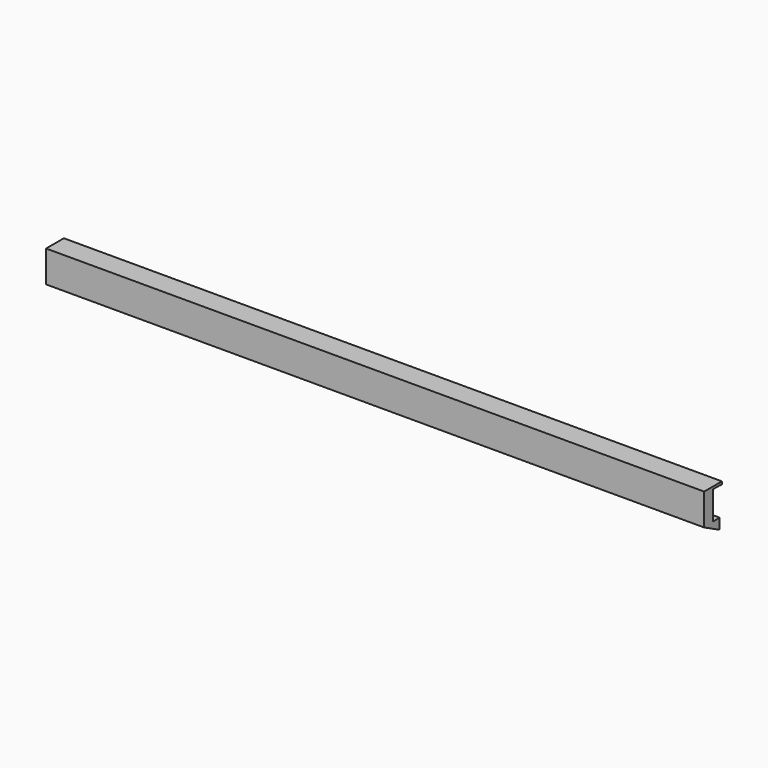
from build123d import *

# Parameters (mm, degrees)
BOX079_W               = 3
BOX079_H               = 10
BOX079_DEPTH           = 6.5
CYLINDER078_R          = 3.25
CYLINDER078_DEPTH      = 10
CYLINDER078_ROLL_ANGLE = 90
CYLINDER077_R          = 1.25
CYLINDER077_DEPTH      = 6
CYLINDER077_ROLL_ANGLE = 90
CYLINDER075_R          = 1.25
CYLINDER075_DEPTH      = 6
CYLINDER075_ROLL_ANGLE = 90
BOX078_W               = 5.1
BOX078_H               = 3.1
BOX078_DEPTH           = 10.2
CYLINDER073_R          = 3.25
CYLINDER073_DEPTH      = 10
CYLINDER073_ROLL_ANGLE = 90
BOX076_W               = 238
BOX076_H               = 8
BOX076_DEPTH           = 15
BOX074_W               = 37
BOX074_H               = 160
BOX074_DEPTH           = 120
BOX074_PITCH_ANGLE     = -15
BOX068_W               = 475
BOX068_H               = 10
BOX068_DEPTH           = 10
BOX068_ROLL_ANGLE      = -27
BOX049_W               = 475
BOX049_H               = 8
BOX049_DEPTH           = 15
BOX069_W               = 475
BOX069_H               = 8
BOX069_DEPTH           = 15


with BuildPart() as cube051:
    # Box079 → Box079 (new body)
    with BuildSketch(Plane(origin=(7, -43, 91.75), x_dir=(1, 0, 0), z_dir=(0, 0, 1))):
        with Locations((1.5, 5)):
            Rectangle(BOX079_W, BOX079_H)
    extrude(amount=BOX079_DEPTH)


with BuildPart() as fusion088:
    # Cylinder078 → Cylinder078 (new body)
    with BuildSketch(Plane.XY):
        Circle(CYLINDER078_R)
    extrude(amount=CYLINDER078_DEPTH)


with BuildPart() as fusion088_1:
    # Cylinder078 roll: moved
    add(fusion088.part.rotate(Axis((0, 0, 0), (1, 0, 0)), CYLINDER078_ROLL_ANGLE))


with BuildPart() as fusion088_2:
    # Cylinder078 placement: moved
    add(fusion088_1.part.moved(Location((10, -33, 95))))

    # Fusion088: union Cube051
    add(cube051.part)


with BuildPart() as cylinder077:
    # Cylinder077 → Cylinder077 (new body)
    with BuildSketch(Plane.XY):
        Circle(CYLINDER077_R)
    extrude(amount=CYLINDER077_DEPTH)


with BuildPart() as cylinder077_1:
    # Cylinder077 roll: moved
    add(cylinder077.part.rotate(Axis((0, 0, 0), (1, 0, 0)), CYLINDER077_ROLL_ANGLE))


with BuildPart() as cylinder077_2:
    # Cylinder077 placement: moved
    add(cylinder077_1.part.moved(Location((237.5, -40, 101))))


with BuildPart() as fusion084:
    # Cylinder075 → Cylinder075 (new body)
    with BuildSketch(Plane.XY):
        Circle(CYLINDER075_R)
    extrude(amount=CYLINDER075_DEPTH)


with BuildPart() as fusion084_1:
    # Cylinder075 roll: moved
    add(fusion084.part.rotate(Axis((0, 0, 0), (1, 0, 0)), CYLINDER075_ROLL_ANGLE))


with BuildPart() as fusion084_2:
    # Cylinder075 placement: moved
    add(fusion084_1.part.moved(Location((15, -40, 101))))

    # Fusion084: union Cylinder077
    add(cylinder077_2.part)


with BuildPart() as cube050:
    # Box078 → Box078 (new body)
    with BuildSketch(Plane(origin=(234.9, -43.1, 93.9), x_dir=(1, 0, 0), z_dir=(0, 0, 1))):
        with Locations((2.55, 1.55)):
            Rectangle(BOX078_W, BOX078_H)
    extrude(amount=BOX078_DEPTH)


with BuildPart() as cylinder073:
    # Cylinder073 → Cylinder073 (new body)
    with BuildSketch(Plane.XY):
        Circle(CYLINDER073_R)
    extrude(amount=CYLINDER073_DEPTH)


with BuildPart() as cylinder073_1:
    # Cylinder073 roll: moved
    add(cylinder073.part.rotate(Axis((0, 0, 0), (1, 0, 0)), CYLINDER073_ROLL_ANGLE))


with BuildPart() as cylinder073_2:
    # Cylinder073 placement: moved
    add(cylinder073_1.part.moved(Location((7, -33, 95))))


with BuildPart() as cube048:
    # Box076 → Box076 (new body)
    with BuildSketch(Plane(origin=(240, -47, 90), x_dir=(1, 0, 0), z_dir=(0, 0, 1))):
        with Locations((119, 4)):
            Rectangle(BOX076_W, BOX076_H)
    extrude(amount=BOX076_DEPTH)


with BuildPart() as cube046:
    # Box074 → Box074 (new body)
    with BuildSketch(Plane.XY):
        with Locations((18.5, 80)):
            Rectangle(BOX074_W, BOX074_H)
    extrude(amount=BOX074_DEPTH)


with BuildPart() as cube046_1:
    # Box074 pitch: moved
    add(cube046.part.rotate(Axis((0, 0, 0), (0, 1, 0)), BOX074_PITCH_ANGLE))


with BuildPart() as cube046_2:
    # Box074 placement: moved
    add(cube046_1.part.moved(Location((502.2, -50, -4))))


with BuildPart() as cube040:
    # Box068 → Box068 (new body)
    with BuildSketch(Plane.XY):
        with Locations((237.5, 5)):
            Rectangle(BOX068_W, BOX068_H)
    extrude(amount=BOX068_DEPTH)


with BuildPart() as cube040_1:
    # Box068 roll: moved
    add(cube040.part.rotate(Axis((0, 0, 0), (1, 0, 0)), BOX068_ROLL_ANGLE))


with BuildPart() as cube040_2:
    # Box068 placement: moved
    add(cube040_1.part.moved(Location((0, -53.1, 85.5))))


with BuildPart() as cube021:
    # Box049 → Box049 (new body)
    with BuildSketch(Plane(origin=(0, -40, 89), x_dir=(1, 0, 0), z_dir=(0, 0, 1))):
        with Locations((237.5, 4)):
            Rectangle(BOX049_W, BOX049_H)
    extrude(amount=BOX049_DEPTH)


with BuildPart() as cut095:
    # Box069 → Box069 (new body)
    with BuildSketch(Plane(origin=(0, -47, 90), x_dir=(1, 0, 0), z_dir=(0, 0, 1))):
        with Locations((237.5, 4)):
            Rectangle(BOX069_W, BOX069_H)
    extrude(amount=BOX069_DEPTH)

    # Cut066: cut Cube021
    add(cube021.part, mode=Mode.SUBTRACT)

    # Cut082: cut Cube040
    add(cube040_2.part, mode=Mode.SUBTRACT)


with BuildPart() as cut095_1:
    # Cut082 placement: moved
    add(cut095.part.moved(Location((3, 0, 0))))

    # Cut081: cut Cube046
    add(cube046_2.part, mode=Mode.SUBTRACT)

    # Cut084: cut Cube048
    add(cube048.part, mode=Mode.SUBTRACT)

    # Cut085: cut Cylinder073
    add(cylinder073_2.part, mode=Mode.SUBTRACT)

    # Cut090: cut Cube050
    add(cube050.part, mode=Mode.SUBTRACT)

    # Cut094: cut Fusion084
    add(fusion084_2.part, mode=Mode.SUBTRACT)

    # Cut095: cut Fusion088
    add(fusion088_2.part, mode=Mode.SUBTRACT)


solid = cut095_1.part
